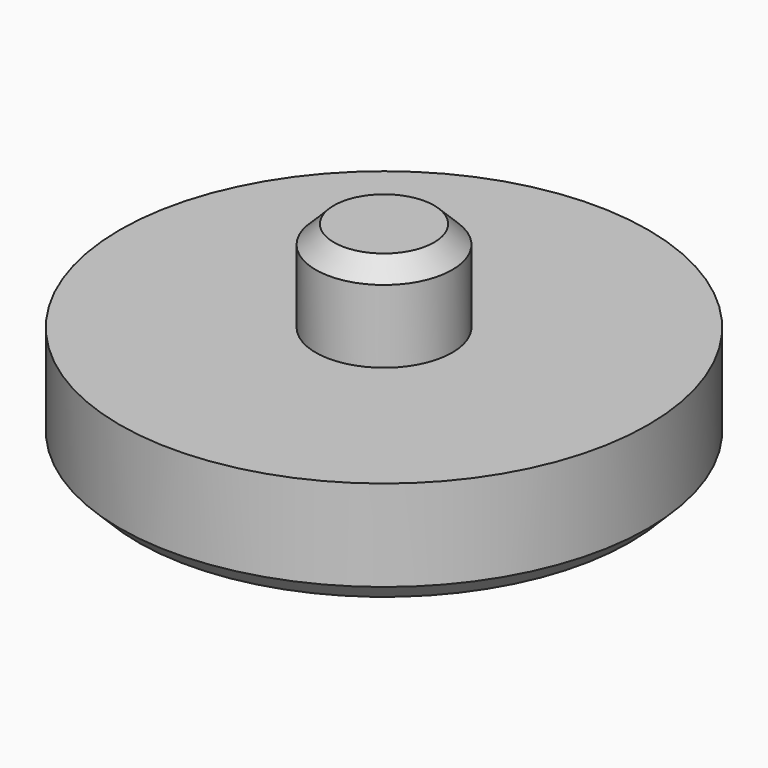
from build123d import *

# Parameters (mm, degrees)
F0_R     = 29
F1_DEPTH = 12
F2_R     = 7.5
F3_DEPTH = 10
F4_SIZE  = 2
F5_SIZE  = 2


with BuildPart() as f1:
    # F0 (on Top) → F1 (new body)
    with BuildSketch(Plane.XY):
        Circle(F0_R)
    extrude(amount=F1_DEPTH)

    # F2 (on face) → F3 (join)
    with BuildSketch(Plane.XY.offset(12)):
        Circle(F2_R)
    extrude(amount=F3_DEPTH)

    # F4
    f4_edges = [f1.edges().sort_by_distance(p)[0] for p in [
        (-7.5, 0, 22),
    ]]
    chamfer(f4_edges, length=F4_SIZE)

    # F5
    f5_edges = [f1.edges().sort_by_distance(p)[0] for p in [
        (-29, 0, 0),
    ]]
    chamfer(f5_edges, length=F5_SIZE)


solid = f1.part
